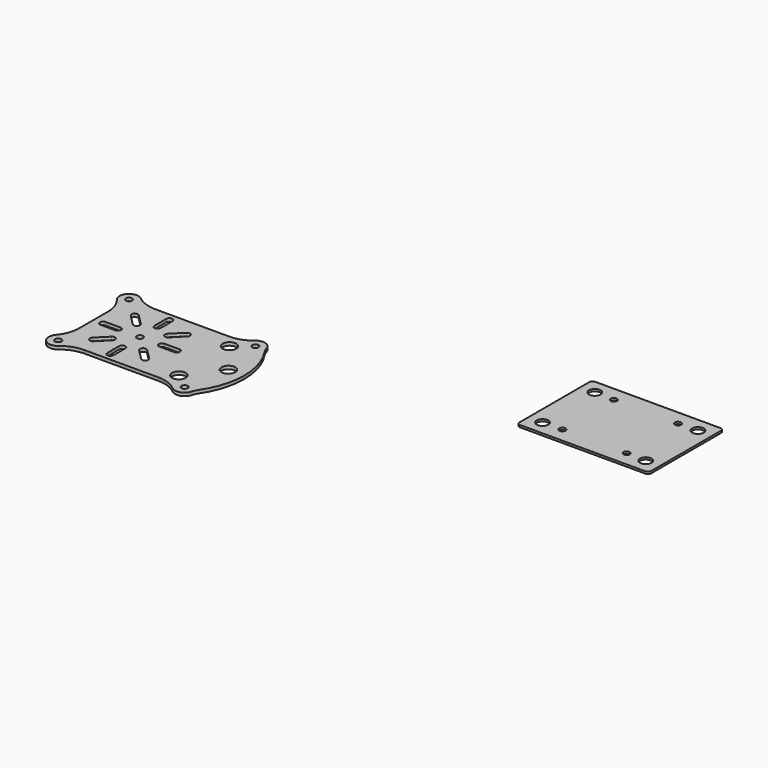
from build123d import *

# Parameters (mm, degrees)
F0_R     = 3.25
F1_DEPTH = 1.5
F2_R     = 2.75
F2_R_2   = 1.5
F3_DEPTH = 1


with BuildPart() as f1:
    # F0 (on Top) → F1 (new body)
    with BuildSketch(Plane.XY):
        with BuildLine():
            Line((-48.2771427102, 19.895528779), (-51.2771427102, 19.895528779))
            Line((-51.2771427102, 19.895528779), (-51.2771427102, 11.3554645734))
            Line((-51.2771427102, 11.3554645734), (-51.2771427102, 4.2430529365))
            ThreePointArc((-51.2771427102, 4.2430529365), (-50.9484230205, 3.7910073731), (-50.6104164344, 3.3458631567))
            ThreePointArc((-50.6104164344, 3.3458631567), (-48.0220427616, 2.0026696391), (-46.8006257428, -0.6453461392))
            ThreePointArc((-46.8006257428, -0.6453461392), (-46.5256933029, -0.8767484783), (-46.2477054587, -1.104471221))
            Line((-46.2477054587, -1.104471221), (-38.8172069159, -1.104471221))
            Line((-38.8172069159, -1.104471221), (-12.3065799618, -1.104471221))
            ThreePointArc((-12.3065799618, -1.104471221), (-4.9131816795, 8.2594898097), (-2.2771427102, 19.895528779))
            Line((-2.2771427102, 19.895528779), (-10.2771427102, 19.895528779))
            ThreePointArc((-10.2771427102, 19.895528779), (-10.7164825384, 18.8348686072), (-11.7771427102, 18.395528779))
            Line((-11.7771427102, 18.395528779), (-18.7771427102, 18.395528779))
            ThreePointArc((-18.7771427102, 18.395528779), (-19.837802882, 18.8348686072), (-20.2771427102, 19.895528779))
            Line((-20.2771427102, 19.895528779), (-27.7771427102, 19.895528779))
            ThreePointArc((-27.7771427102, 19.895528779), (-29.2771427102, 18.395528779), (-30.7771427102, 19.895528779))
            Line((-30.7771427102, 19.895528779), (-38.2771427102, 19.895528779))
            ThreePointArc((-38.2771427102, 19.895528779), (-38.7164825384, 18.8348686072), (-39.7771427102, 18.395528779))
            Line((-39.7771427102, 18.395528779), (-46.7771427102, 18.395528779))
            ThreePointArc((-46.7771427102, 18.395528779), (-47.837802882, 18.8348686072), (-48.2771427102, 19.895528779))
        make_face()
        with BuildLine():
            Line((-27.7771427102, 9.395528779), (-27.7771427102, 2.395528779))
            ThreePointArc((-27.7771427102, 2.395528779), (-28.2164825384, 1.3348686072), (-29.2771427102, 0.895528779))
            ThreePointArc((-29.2771427102, 0.895528779), (-30.337802882, 1.3348686072), (-30.7771427102, 2.395528779))
            Line((-30.7771427102, 2.395528779), (-30.7771427102, 9.395528779))
            ThreePointArc((-30.7771427102, 9.395528779), (-30.337802882, 10.4561889508), (-29.2771427102, 10.895528779))
            ThreePointArc((-29.2771427102, 10.895528779), (-28.2164825384, 10.4561889508), (-27.7771427102, 9.395528779))
        make_face(mode=Mode.SUBTRACT)
        with BuildLine():
            ThreePointArc((-35.6410647716, 13.531528779), (-35.2017249434, 12.4708686072), (-35.6410647716, 11.4102084354))
            Line((-35.6410647716, 11.4102084354), (-40.5908122399, 6.4604609671))
            ThreePointArc((-40.5908122399, 6.4604609671), (-41.6514724117, 6.0211211389), (-42.7121325835, 6.4604609671))
            ThreePointArc((-42.7121325835, 6.4604609671), (-43.1514724117, 7.5211211389), (-42.7121325835, 8.5817813107))
            Line((-42.7121325835, 8.5817813107), (-37.7623851151, 13.531528779))
            ThreePointArc((-37.7623851151, 13.531528779), (-36.7017249434, 13.9708686072), (-35.6410647716, 13.531528779))
        make_face(mode=Mode.SUBTRACT)
        with BuildLine():
            Line((-17.9634731806, 6.4604609671), (-22.9132206489, 11.4102084354))
            ThreePointArc((-22.9132206489, 11.4102084354), (-23.3525604771, 12.4708686072), (-22.9132206489, 13.531528779))
            ThreePointArc((-22.9132206489, 13.531528779), (-21.8525604771, 13.9708686072), (-20.7919003053, 13.531528779))
            Line((-20.7919003053, 13.531528779), (-15.842152837, 8.5817813107))
            ThreePointArc((-15.842152837, 8.5817813107), (-15.4028130088, 7.5211211389), (-15.842152837, 6.4604609671))
            ThreePointArc((-15.842152837, 6.4604609671), (-16.9028130088, 6.0211211389), (-17.9634731806, 6.4604609671))
        make_face(mode=Mode.SUBTRACT)
        with BuildLine():
            Line((-3.7370785686, 40.895528779), (-12.3065799618, 40.895528779))
            ThreePointArc((-12.3065799618, 40.895528779), (-4.9131816795, 31.5315677483), (-2.2771427102, 19.895528779))
            Line((-2.2771427102, 19.895528779), (6.2228572898, 19.895528779))
            ThreePointArc((6.2228572898, 19.895528779), (12.7228572898, 26.395528779), (19.2228572898, 19.895528779))
            Line((19.2228572898, 19.895528779), (20.2228572898, 19.895528779))
            ThreePointArc((20.2228572898, 19.895528779), (18.6743346653, 30.1910939113), (14.1657909244, 39.5756352986))
            ThreePointArc((14.1657909244, 39.5756352986), (13.7019716094, 40.2410454244), (13.2228572898, 40.895528779))
            ThreePointArc((13.2228572898, 40.895528779), (11.440455794, 37.3087951159), (7.5052313477, 36.5633945399))
            ThreePointArc((7.5052313477, 36.5633945399), (7.6682211808, 35.736530748), (7.7228572898, 34.895528779))
            ThreePointArc((7.7228572898, 34.895528779), (-2.3826939857, 29.4872018658), (-1.2771427102, 40.895528779))
            Line((-1.2771427102, 40.895528779), (-3.7370785686, 40.895528779))
        make_face()
        with BuildLine():
            Line((6.2228572898, 19.895528779), (-2.2771427102, 19.895528779))
            ThreePointArc((-2.2771427102, 19.895528779), (-4.9131816795, 8.2594898097), (-12.3065799618, -1.104471221))
            Line((-12.3065799618, -1.104471221), (-3.7370785126, -1.104471221))
            Line((-3.7370785126, -1.104471221), (-1.2771427102, -1.104471221))
            ThreePointArc((-1.2771427102, -1.104471221), (-2.3826939857, 10.3038556922), (7.7228572898, 4.895528779))
            ThreePointArc((7.7228572898, 4.895528779), (7.6682211808, 4.05452681), (7.5052313477, 3.227663018))
            ThreePointArc((7.5052313477, 3.227663018), (11.440455794, 2.482262442), (13.2228572898, -1.104471221))
            ThreePointArc((13.2228572898, -1.104471221), (13.7019717087, -0.4499877274), (14.1657911166, 0.2154225421))
            ThreePointArc((14.1657911166, 0.2154225421), (18.6743347156, 9.59996381), (20.2228572898, 19.895528779))
            Line((20.2228572898, 19.895528779), (19.2228572898, 19.895528779))
            ThreePointArc((19.2228572898, 19.895528779), (12.7228572898, 13.395528779), (6.2228572898, 19.895528779))
        make_face()
        with BuildLine():
            Line((9.4728572898, 19.895528779), (6.2228572898, 19.895528779))
            ThreePointArc((6.2228572898, 19.895528779), (12.7228572898, 13.395528779), (19.2228572898, 19.895528779))
            Line((19.2228572898, 19.895528779), (15.9728572898, 19.895528779))
            ThreePointArc((15.9728572898, 19.895528779), (12.7228572898, 16.645528779), (9.4728572898, 19.895528779))
        make_face()
        with BuildLine():
            ThreePointArc((19.2228572898, 19.895528779), (12.7228572898, 26.395528779), (6.2228572898, 19.895528779))
            Line((6.2228572898, 19.895528779), (9.4728572898, 19.895528779))
            ThreePointArc((9.4728572898, 19.895528779), (12.7228572898, 23.145528779), (15.9728572898, 19.895528779))
            Line((15.9728572898, 19.895528779), (19.2228572898, 19.895528779))
        make_face()
        with BuildLine():
            Line((7.2228572898, 40.895528779), (5.9728572898, 40.895528779))
            ThreePointArc((5.9728572898, 40.895528779), (8.7228572898, 38.145528779), (11.4728572898, 40.895528779))
            Line((11.4728572898, 40.895528779), (10.2228572898, 40.895528779))
            ThreePointArc((10.2228572898, 40.895528779), (8.7228572898, 39.395528779), (7.2228572898, 40.895528779))
        make_face()
        with BuildLine():
            ThreePointArc((11.4728572898, 40.895528779), (8.7228572898, 43.645528779), (5.9728572898, 40.895528779))
            Line((5.9728572898, 40.895528779), (7.2228572898, 40.895528779))
            ThreePointArc((7.2228572898, 40.895528779), (8.7228572898, 42.395528779), (10.2228572898, 40.895528779))
            Line((10.2228572898, 40.895528779), (11.4728572898, 40.895528779))
        make_face()
        with BuildLine():
            ThreePointArc((-51.2771427102, 39.395528779), (-52.337802882, 41.9561889508), (-49.7771427102, 40.895528779))
            Line((-49.7771427102, 40.895528779), (-46.7771427102, 40.895528779))
            ThreePointArc((-46.7771427102, 40.895528779), (-47.2034979247, 42.8074435683), (-48.4017730043, 44.3570673176))
            ThreePointArc((-48.4017730043, 44.3570673176), (-54.4591232547, 44.0775092652), (-54.7386811962, 38.0201590097))
            ThreePointArc((-54.7386811962, 38.0201590097), (-53.1890574623, 36.821883976), (-51.2771427102, 36.395528779))
            Line((-51.2771427102, 36.395528779), (-51.2771427102, 39.395528779))
        make_face()
        with BuildLine():
            Line((-46.7771427102, 40.895528779), (-49.7771427102, 40.895528779))
            ThreePointArc((-49.7771427102, 40.895528779), (-50.2164825384, 39.8348686072), (-51.2771427102, 39.395528779))
            Line((-51.2771427102, 39.395528779), (-51.2771427102, 36.395528779))
            ThreePointArc((-51.2771427102, 36.395528779), (-50.9428559318, 36.4079623617), (-50.6104164344, 36.4451944013))
            ThreePointArc((-50.6104164344, 36.4451944013), (-48.8077424021, 38.5383739394), (-46.8006257428, 40.4364036972))
            ThreePointArc((-46.8006257428, 40.4364036972), (-46.7830173029, 40.6656661605), (-46.7771427102, 40.895528779))
        make_face()
        with BuildLine():
            ThreePointArc((-50.6104164344, 3.3458631567), (-50.9428559318, 3.3830951963), (-51.2771427102, 3.395528779))
            Line((-51.2771427102, 3.395528779), (-51.2771427102, 0.395528779))
            ThreePointArc((-51.2771427102, 0.395528779), (-50.2164825384, -0.0438110492), (-49.7771427102, -1.104471221))
            Line((-49.7771427102, -1.104471221), (-46.7771427102, -1.104471221))
            ThreePointArc((-46.7771427102, -1.104471221), (-46.7830173029, -0.8746086025), (-46.8006257428, -0.6453461392))
            ThreePointArc((-46.8006257428, -0.6453461392), (-48.8077424021, 1.2526836186), (-50.6104164344, 3.3458631567))
        make_face()
        with BuildLine():
            ThreePointArc((-51.2771427102, 3.395528779), (-53.1890573558, 2.9691736319), (-54.738681046, 1.7708987291))
            ThreePointArc((-54.738681046, 1.7708987291), (-54.4591233267, -4.2864516352), (-48.4017729801, -4.5660097395))
            ThreePointArc((-48.4017729801, -4.5660097395), (-47.203497918, -3.0163859961), (-46.7771427102, -1.104471221))
            Line((-46.7771427102, -1.104471221), (-49.7771427102, -1.104471221))
            ThreePointArc((-49.7771427102, -1.104471221), (-52.337802882, -2.1651313928), (-51.2771427102, 0.395528779))
            Line((-51.2771427102, 0.395528779), (-51.2771427102, 3.395528779))
        make_face()
        with BuildLine():
            ThreePointArc((4.2228572898, -1.104471221), (4.6492125365, -3.016386079), (5.8474877006, -4.5660098566))
            ThreePointArc((5.8474877006, -4.5660098566), (10.125131673, -5.3804069729), (13.089728804, -2.1909486382))
            ThreePointArc((13.089728804, -2.1909486382), (13.1894511718, -1.6517728681), (13.2228572898, -1.104471221))
            Line((13.2228572898, -1.104471221), (10.2228572898, -1.104471221))
            ThreePointArc((10.2228572898, -1.104471221), (8.7228572898, -2.604471221), (7.2228572898, -1.104471221))
            Line((7.2228572898, -1.104471221), (4.2228572898, -1.104471221))
        make_face()
        with BuildLine():
            ThreePointArc((4.229101118, -0.867499769), (4.2244185177, -0.9859443734), (4.2228572898, -1.104471221))
            Line((4.2228572898, -1.104471221), (7.2228572898, -1.104471221))
            ThreePointArc((7.2228572898, -1.104471221), (8.7228572898, 0.395528779), (10.2228572898, -1.104471221))
            Line((10.2228572898, -1.104471221), (13.2228572898, -1.104471221))
            ThreePointArc((13.2228572898, -1.104471221), (11.440455794, 2.482262442), (7.5052313477, 3.227663018))
            ThreePointArc((7.5052313477, 3.227663018), (6.2985045512, 0.8350109699), (4.229101118, -0.867499769))
        make_face()
        with BuildLine():
            ThreePointArc((-46.8006257428, -0.6453461392), (-48.0220427616, 2.0026696391), (-50.6104164344, 3.3458631567))
            ThreePointArc((-50.6104164344, 3.3458631567), (-48.8077424021, 1.2526836186), (-46.8006257428, -0.6453461392))
        make_face()
        with BuildLine():
            Line((-51.2771427102, 4.2430529365), (-51.2771427102, 3.395528779))
            ThreePointArc((-51.2771427102, 3.395528779), (-50.9428559318, 3.3830951963), (-50.6104164344, 3.3458631567))
            ThreePointArc((-50.6104164344, 3.3458631567), (-50.9484230205, 3.7910073731), (-51.2771427102, 4.2430529365))
        make_face()
        with BuildLine():
            ThreePointArc((-46.7771427102, -1.104471221), (-47.203497918, -3.0163859961), (-48.4017729801, -4.5660097395))
            ThreePointArc((-48.4017729801, -4.5660097395), (-46.6163630392, -3.2914636208), (-44.6641497224, -2.2909539348))
            ThreePointArc((-44.6641497224, -2.2909539348), (-45.4668003814, -1.7122241002), (-46.2477054587, -1.104471221))
            Line((-46.2477054587, -1.104471221), (-46.7771427102, -1.104471221))
        make_face()
        with BuildLine():
            ThreePointArc((-46.8006257428, -0.6453461392), (-46.7830173029, -0.8746086025), (-46.7771427102, -1.104471221))
            Line((-46.7771427102, -1.104471221), (-46.2477054587, -1.104471221))
            ThreePointArc((-46.2477054587, -1.104471221), (-46.5256933029, -0.8767484783), (-46.8006257428, -0.6453461392))
        make_face()
        with BuildLine():
            Line((-51.2771427102, 28.4355929846), (-51.2771427102, 35.5480046215))
            ThreePointArc((-51.2771427102, 35.5480046215), (-51.8170951911, 34.7599339861), (-52.3288308668, 33.9532552358))
            ThreePointArc((-52.3288308668, 33.9532552358), (-51.5424103127, 31.2440910128), (-51.2771427102, 28.4355929846))
        make_face()
        with BuildLine():
            Line((-51.2771427102, 35.5480046215), (-51.2771427102, 36.395528779))
            ThreePointArc((-51.2771427102, 36.395528779), (-53.1890574623, 36.821883976), (-54.7386811962, 38.0201590097))
            ThreePointArc((-54.7386811962, 38.0201590097), (-53.3725376942, 36.0822373061), (-52.3288308668, 33.9532552358))
            ThreePointArc((-52.3288308668, 33.9532552358), (-51.8170951911, 34.7599339861), (-51.2771427102, 35.5480046215))
        make_face()
        with BuildLine():
            ThreePointArc((-50.6104164344, 36.4451944013), (-48.0220427616, 37.7883879189), (-46.8006257428, 40.4364036972))
            ThreePointArc((-46.8006257428, 40.4364036972), (-48.8077424021, 38.5383739394), (-50.6104164344, 36.4451944013))
        make_face()
        with BuildLine():
            ThreePointArc((-50.6104164344, 36.4451944013), (-50.9428559318, 36.4079623617), (-51.2771427102, 36.395528779))
            Line((-51.2771427102, 36.395528779), (-51.2771427102, 35.5480046215))
            ThreePointArc((-51.2771427102, 35.5480046215), (-50.9484230205, 36.0000501848), (-50.6104164344, 36.4451944013))
        make_face()
        with BuildLine():
            Line((-12.3065799618, 40.895528779), (-29.2771427102, 40.895528779))
            Line((-29.2771427102, 40.895528779), (-29.2771427102, 38.895528779))
            ThreePointArc((-29.2771427102, 38.895528779), (-28.2164825384, 38.4561889508), (-27.7771427102, 37.395528779))
            Line((-27.7771427102, 37.395528779), (-27.7771427102, 30.395528779))
            ThreePointArc((-27.7771427102, 30.395528779), (-28.2164825384, 29.3348686072), (-29.2771427102, 28.895528779))
            Line((-29.2771427102, 28.895528779), (-29.2771427102, 21.395528779))
            ThreePointArc((-29.2771427102, 21.395528779), (-28.2164825384, 20.9561889508), (-27.7771427102, 19.895528779))
            Line((-27.7771427102, 19.895528779), (-20.2771427102, 19.895528779))
            ThreePointArc((-20.2771427102, 19.895528779), (-19.837802882, 20.9561889508), (-18.7771427102, 21.395528779))
            Line((-18.7771427102, 21.395528779), (-11.7771427102, 21.395528779))
            ThreePointArc((-11.7771427102, 21.395528779), (-10.7164825384, 20.9561889508), (-10.2771427102, 19.895528779))
            Line((-10.2771427102, 19.895528779), (-2.2771427102, 19.895528779))
            ThreePointArc((-2.2771427102, 19.895528779), (-4.9131816795, 31.5315677483), (-12.3065799618, 40.895528779))
        make_face()
        with BuildLine():
            ThreePointArc((-22.9132206489, 26.259528779), (-23.3525604771, 27.3201889508), (-22.9132206489, 28.3808491225))
            Line((-22.9132206489, 28.3808491225), (-17.9634731806, 33.3305965909))
            ThreePointArc((-17.9634731806, 33.3305965909), (-16.9028130088, 33.7699364191), (-15.842152837, 33.3305965909))
            ThreePointArc((-15.842152837, 33.3305965909), (-15.4028130088, 32.2699364191), (-15.842152837, 31.2092762473))
            Line((-15.842152837, 31.2092762473), (-20.7919003053, 26.259528779))
            ThreePointArc((-20.7919003053, 26.259528779), (-21.8525604771, 25.8201889508), (-22.9132206489, 26.259528779))
        make_face(mode=Mode.SUBTRACT)
        with BuildLine():
            ThreePointArc((-48.4017730043, 44.3570673176), (-47.2034979247, 42.8074435683), (-46.7771427102, 40.895528779))
            Line((-46.7771427102, 40.895528779), (-46.2477054587, 40.895528779))
            ThreePointArc((-46.2477054587, 40.895528779), (-45.4668003814, 41.5032816582), (-44.6641497224, 42.0820114927))
            ThreePointArc((-44.6641497224, 42.0820114927), (-46.6163630526, 43.0825211869), (-48.4017730043, 44.3570673176))
        make_face()
        with BuildLine():
            ThreePointArc((-44.6641497224, 42.0820114927), (-45.4668003814, 41.5032816582), (-46.2477054587, 40.895528779))
            Line((-46.2477054587, 40.895528779), (-38.8172069158, 40.895528779))
            ThreePointArc((-38.8172069158, 40.895528779), (-41.8002624556, 41.1951417213), (-44.6641497224, 42.0820114927))
        make_face()
        with BuildLine():
            Line((-46.2477054587, 40.895528779), (-46.7771427102, 40.895528779))
            ThreePointArc((-46.7771427102, 40.895528779), (-46.7830173029, 40.6656661605), (-46.8006257428, 40.4364036972))
            ThreePointArc((-46.8006257428, 40.4364036972), (-46.5256933029, 40.6678060363), (-46.2477054587, 40.895528779))
        make_face()
        with BuildLine():
            ThreePointArc((5.8474876472, 44.3570673702), (1.3581682144, 41.7874296557), (-3.7370785686, 40.895528779))
            Line((-3.7370785686, 40.895528779), (-1.2771427102, 40.895528779))
            ThreePointArc((-1.2771427102, 40.895528779), (1.2228572898, 41.395528779), (3.7228572898, 40.895528779))
            Line((3.7228572898, 40.895528779), (4.2228572898, 40.895528779))
            ThreePointArc((4.2228572898, 40.895528779), (4.6492125218, 42.8074436056), (5.8474876472, 44.3570673702))
        make_face()
        with BuildLine():
            ThreePointArc((14.1657909244, 39.5756352986), (13.5212106163, 40.7311749308), (13.0897287851, 41.9820062721))
            ThreePointArc((13.0897287851, 41.9820062721), (13.189451167, 41.442830465), (13.2228572898, 40.895528779))
            ThreePointArc((13.2228572898, 40.895528779), (13.7019716094, 40.2410454244), (14.1657909244, 39.5756352986))
        make_face()
        with BuildLine():
            Line((-1.2771427102, -1.104471221), (-3.7370785126, -1.104471221))
            ThreePointArc((-3.7370785126, -1.104471221), (1.3581682734, -1.996372119), (5.8474877006, -4.5660098566))
            ThreePointArc((5.8474877006, -4.5660098566), (4.6492125365, -3.016386079), (4.2228572898, -1.104471221))
            Line((4.2228572898, -1.104471221), (3.7228572898, -1.104471221))
            ThreePointArc((3.7228572898, -1.104471221), (1.2228572898, -1.604471221), (-1.2771427102, -1.104471221))
        make_face()
        with BuildLine():
            ThreePointArc((13.2228572898, -1.104471221), (13.1894511718, -1.6517728681), (13.089728804, -2.1909486382))
            ThreePointArc((13.089728804, -2.1909486382), (13.5212107021, -0.9401171811), (14.1657911166, 0.2154225421))
            ThreePointArc((14.1657911166, 0.2154225421), (13.7019717087, -0.4499877274), (13.2228572898, -1.104471221))
        make_face()
        with BuildLine():
            ThreePointArc((-52.3288308668, 5.8378023222), (-53.3725376342, 3.708820353), (-54.738681046, 1.7708987291))
            ThreePointArc((-54.738681046, 1.7708987291), (-53.1890573558, 2.9691736319), (-51.2771427102, 3.395528779))
            Line((-51.2771427102, 3.395528779), (-51.2771427102, 4.2430529365))
            ThreePointArc((-51.2771427102, 4.2430529365), (-51.8170951911, 5.0311235719), (-52.3288308668, 5.8378023222))
        make_face()
        with BuildLine():
            Line((-51.2771427102, 4.2430529365), (-51.2771427102, 11.3554645734))
            ThreePointArc((-51.2771427102, 11.3554645734), (-51.5424103127, 8.5469665452), (-52.3288308668, 5.8378023222))
            ThreePointArc((-52.3288308668, 5.8378023222), (-51.8170951911, 5.0311235719), (-51.2771427102, 4.2430529365))
        make_face()
        with BuildLine():
            ThreePointArc((-46.2477054587, -1.104471221), (-45.4668003814, -1.7122241002), (-44.6641497224, -2.2909539348))
            ThreePointArc((-44.6641497224, -2.2909539348), (-41.8002624556, -1.4040841633), (-38.8172069159, -1.104471221))
            Line((-38.8172069159, -1.104471221), (-46.2477054587, -1.104471221))
        make_face()
        with BuildLine():
            ThreePointArc((-46.2477054587, 40.895528779), (-46.5256933029, 40.6678060363), (-46.8006257428, 40.4364036972))
            ThreePointArc((-46.8006257428, 40.4364036972), (-48.0220427616, 37.7883879189), (-50.6104164344, 36.4451944013))
            ThreePointArc((-50.6104164344, 36.4451944013), (-50.9484230205, 36.0000501848), (-51.2771427102, 35.5480046215))
            Line((-51.2771427102, 35.5480046215), (-51.2771427102, 28.4355929846))
            Line((-51.2771427102, 28.4355929846), (-51.2771427102, 19.895528779))
            Line((-51.2771427102, 19.895528779), (-48.2771427102, 19.895528779))
            ThreePointArc((-48.2771427102, 19.895528779), (-47.837802882, 20.9561889508), (-46.7771427102, 21.395528779))
            Line((-46.7771427102, 21.395528779), (-39.7771427102, 21.395528779))
            ThreePointArc((-39.7771427102, 21.395528779), (-38.7164825384, 20.9561889508), (-38.2771427102, 19.895528779))
            Line((-38.2771427102, 19.895528779), (-30.7771427102, 19.895528779))
            ThreePointArc((-30.7771427102, 19.895528779), (-30.337802882, 20.9561889508), (-29.2771427102, 21.395528779))
            Line((-29.2771427102, 21.395528779), (-29.2771427102, 28.895528779))
            ThreePointArc((-29.2771427102, 28.895528779), (-30.337802882, 29.3348686072), (-30.7771427102, 30.395528779))
            Line((-30.7771427102, 30.395528779), (-30.7771427102, 37.395528779))
            ThreePointArc((-30.7771427102, 37.395528779), (-30.337802882, 38.4561889508), (-29.2771427102, 38.895528779))
            Line((-29.2771427102, 38.895528779), (-29.2771427102, 40.895528779))
            Line((-29.2771427102, 40.895528779), (-38.8172069158, 40.895528779))
            Line((-38.8172069158, 40.895528779), (-46.2477054587, 40.895528779))
        make_face()
        with BuildLine():
            Line((-40.5908122399, 33.3305965909), (-35.6410647716, 28.3808491225))
            ThreePointArc((-35.6410647716, 28.3808491225), (-35.2017249434, 27.3201889508), (-35.6410647716, 26.259528779))
            ThreePointArc((-35.6410647716, 26.259528779), (-36.7017249434, 25.8201889508), (-37.7623851151, 26.259528779))
            Line((-37.7623851151, 26.259528779), (-42.7121325835, 31.2092762473))
            ThreePointArc((-42.7121325835, 31.2092762473), (-43.1514724117, 32.2699364191), (-42.7121325835, 33.3305965909))
            ThreePointArc((-42.7121325835, 33.3305965909), (-41.6514724117, 33.7699364191), (-40.5908122399, 33.3305965909))
        make_face(mode=Mode.SUBTRACT)
        with BuildLine():
            Line((3.7228572898, 40.895528779), (-1.2771427102, 40.895528779))
            ThreePointArc((-1.2771427102, 40.895528779), (-2.3826939857, 29.4872018658), (7.7228572898, 34.895528779))
            ThreePointArc((7.7228572898, 34.895528779), (7.6682211808, 35.736530748), (7.5052313477, 36.5633945399))
            ThreePointArc((7.5052313477, 36.5633945399), (5.2089476473, 38.084401065), (4.229101118, 40.658557327))
            ThreePointArc((4.229101118, 40.658557327), (3.9785276513, 40.7824873196), (3.7228572898, 40.895528779))
        make_face()
        with Locations((1.2228572898, 34.895528779)):
            Circle(F0_R, mode=Mode.SUBTRACT)
        with BuildLine():
            ThreePointArc((7.5052313477, 36.5633945399), (6.2985045512, 38.9560465881), (4.229101118, 40.658557327))
            ThreePointArc((4.229101118, 40.658557327), (5.2089476473, 38.084401065), (7.5052313477, 36.5633945399))
        make_face()
        with BuildLine():
            ThreePointArc((3.7228572898, 40.895528779), (1.2228572898, 41.395528779), (-1.2771427102, 40.895528779))
            Line((-1.2771427102, 40.895528779), (3.7228572898, 40.895528779))
        make_face()
        with BuildLine():
            ThreePointArc((13.0897287851, 41.9820062721), (10.1251316028, 45.1714645539), (5.8474876472, 44.3570673702))
            ThreePointArc((5.8474876472, 44.3570673702), (4.6492125218, 42.8074436056), (4.2228572898, 40.895528779))
            Line((4.2228572898, 40.895528779), (5.9728572898, 40.895528779))
            ThreePointArc((5.9728572898, 40.895528779), (8.7228572898, 43.645528779), (11.4728572898, 40.895528779))
            Line((11.4728572898, 40.895528779), (13.2228572898, 40.895528779))
            ThreePointArc((13.2228572898, 40.895528779), (13.189451167, 41.442830465), (13.0897287851, 41.9820062721))
        make_face()
        with BuildLine():
            Line((5.9728572898, 40.895528779), (4.2228572898, 40.895528779))
            ThreePointArc((4.2228572898, 40.895528779), (4.2244185177, 40.7770019313), (4.229101118, 40.658557327))
            ThreePointArc((4.229101118, 40.658557327), (6.2985045512, 38.9560465881), (7.5052313477, 36.5633945399))
            ThreePointArc((7.5052313477, 36.5633945399), (11.440455794, 37.3087951159), (13.2228572898, 40.895528779))
            Line((13.2228572898, 40.895528779), (11.4728572898, 40.895528779))
            ThreePointArc((11.4728572898, 40.895528779), (8.7228572898, 38.145528779), (5.9728572898, 40.895528779))
        make_face()
        with BuildLine():
            Line((4.2228572898, 40.895528779), (3.7228572898, 40.895528779))
            ThreePointArc((3.7228572898, 40.895528779), (3.9785276513, 40.7824873196), (4.229101118, 40.658557327))
            ThreePointArc((4.229101118, 40.658557327), (4.2244185177, 40.7770019313), (4.2228572898, 40.895528779))
        make_face()
        with BuildLine():
            ThreePointArc((7.7228572898, 4.895528779), (-2.3826939857, 10.3038556922), (-1.2771427102, -1.104471221))
            Line((-1.2771427102, -1.104471221), (3.7228572898, -1.104471221))
            ThreePointArc((3.7228572898, -1.104471221), (3.9785276513, -0.9914297616), (4.229101118, -0.867499769))
            ThreePointArc((4.229101118, -0.867499769), (5.2089476473, 1.706656493), (7.5052313477, 3.227663018))
            ThreePointArc((7.5052313477, 3.227663018), (7.6682211808, 4.05452681), (7.7228572898, 4.895528779))
        make_face()
        with Locations((1.2228572898, 4.895528779)):
            Circle(F0_R, mode=Mode.SUBTRACT)
        with BuildLine():
            ThreePointArc((7.5052313477, 3.227663018), (5.2089476473, 1.706656493), (4.229101118, -0.867499769))
            ThreePointArc((4.229101118, -0.867499769), (6.2985045512, 0.8350109699), (7.5052313477, 3.227663018))
        make_face()
        with BuildLine():
            ThreePointArc((4.229101118, -0.867499769), (3.9785276513, -0.9914297616), (3.7228572898, -1.104471221))
            Line((3.7228572898, -1.104471221), (4.2228572898, -1.104471221))
            ThreePointArc((4.2228572898, -1.104471221), (4.2244185177, -0.9859443734), (4.229101118, -0.867499769))
        make_face()
        with BuildLine():
            Line((3.7228572898, -1.104471221), (-1.2771427102, -1.104471221))
            ThreePointArc((-1.2771427102, -1.104471221), (1.2228572898, -1.604471221), (3.7228572898, -1.104471221))
        make_face()
    extrude(amount=F1_DEPTH)


with BuildPart() as f3:
    # F2 (on Top) → F3 (new body)
    with BuildSketch(Plane.XY):
        with BuildLine():
            Line((183.7850984416, 98.0272812167), (124.2850984416, 98.0272812167))
            ThreePointArc((124.2850984416, 98.0272812167), (123.2244382698, 97.5879413884), (122.7850984416, 96.5272812167))
            Line((122.7850984416, 96.5272812167), (122.7850984416, 55.0272812167))
            ThreePointArc((122.7850984416, 55.0272812167), (123.2244382698, 53.9666210449), (124.2850984416, 53.5272812167))
            Line((124.2850984416, 53.5272812167), (183.7850984416, 53.5272812167))
            ThreePointArc((183.7850984416, 53.5272812167), (184.8457586134, 53.9666210449), (185.2850984416, 55.0272812167))
            Line((185.2850984416, 55.0272812167), (185.2850984416, 96.5272812167))
            ThreePointArc((185.2850984416, 96.5272812167), (184.8457586134, 97.5879413884), (183.7850984416, 98.0272812167))
        make_face()
        with Locations((129.5350984416, 60.2772812167)):
            Circle(F2_R, mode=Mode.SUBTRACT)
        with Locations((138.7850984416, 60.5272812167)):
            Circle(F2_R_2, mode=Mode.SUBTRACT)
        with Locations((169.2850984416, 60.5272812167)):
            Circle(F2_R_2, mode=Mode.SUBTRACT)
        with Locations((178.5350984416, 60.2772812167)):
            Circle(F2_R, mode=Mode.SUBTRACT)
        with Locations((129.5350984416, 91.2772812167)):
            Circle(F2_R, mode=Mode.SUBTRACT)
        with Locations((138.7850984416, 91.0272812167)):
            Circle(F2_R_2, mode=Mode.SUBTRACT)
        with Locations((169.2850984416, 91.0272812167)):
            Circle(F2_R_2, mode=Mode.SUBTRACT)
        with Locations((178.5350984416, 91.2772812167)):
            Circle(F2_R, mode=Mode.SUBTRACT)
        with BuildLine():
            Line((183.7850984416, 98.0272812167), (124.2850984416, 98.0272812167))
            ThreePointArc((124.2850984416, 98.0272812167), (123.2244382698, 97.5879413884), (122.7850984416, 96.5272812167))
            Line((122.7850984416, 96.5272812167), (122.7850984416, 55.0272812167))
            ThreePointArc((122.7850984416, 55.0272812167), (123.2244382698, 53.9666210449), (124.2850984416, 53.5272812167))
            Line((124.2850984416, 53.5272812167), (183.7850984416, 53.5272812167))
            ThreePointArc((183.7850984416, 53.5272812167), (184.8457586134, 53.9666210449), (185.2850984416, 55.0272812167))
            Line((185.2850984416, 55.0272812167), (185.2850984416, 96.5272812167))
            ThreePointArc((185.2850984416, 96.5272812167), (184.8457586134, 97.5879413884), (183.7850984416, 98.0272812167))
        make_face()
        with Locations((129.5350984416, 60.2772812167)):
            Circle(F2_R, mode=Mode.SUBTRACT)
        with Locations((138.7850984416, 60.5272812167)):
            Circle(F2_R_2, mode=Mode.SUBTRACT)
        with Locations((169.2850984416, 60.5272812167)):
            Circle(F2_R_2, mode=Mode.SUBTRACT)
        with Locations((178.5350984416, 60.2772812167)):
            Circle(F2_R, mode=Mode.SUBTRACT)
        with Locations((129.5350984416, 91.2772812167)):
            Circle(F2_R, mode=Mode.SUBTRACT)
        with Locations((138.7850984416, 91.0272812167)):
            Circle(F2_R_2, mode=Mode.SUBTRACT)
        with Locations((169.2850984416, 91.0272812167)):
            Circle(F2_R_2, mode=Mode.SUBTRACT)
        with Locations((178.5350984416, 91.2772812167)):
            Circle(F2_R, mode=Mode.SUBTRACT)
    extrude(amount=F3_DEPTH)


solid = Compound([f1.part, f3.part])
